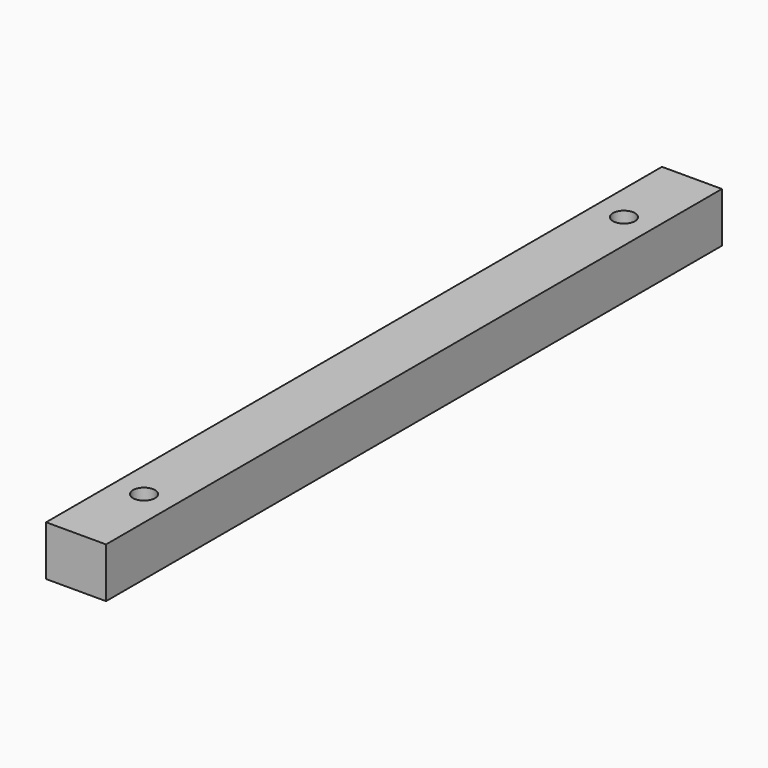
from build123d import *

# Parameters (mm, degrees)
F0_W     = 6
F0_H     = 5
F1_DEPTH = 77
F2_R     = 1.1
F3_DEPTH = 25


with BuildPart() as f1:
    # F0 (on Front) → F1 (new body)
    with BuildSketch(Plane.XZ):
        with Locations((3, 2.5)):
            Rectangle(F0_W, F0_H)
    extrude(amount=F1_DEPTH)

    # F2 (on face) → F3 (cut)
    with BuildSketch(Plane.XY.offset(5)):
        with Locations((3, -8.5)):
            Circle(F2_R)
        with Locations((3, -68.5)):
            Circle(F2_R)
    extrude(amount=-F3_DEPTH, mode=Mode.SUBTRACT)


solid = f1.part
